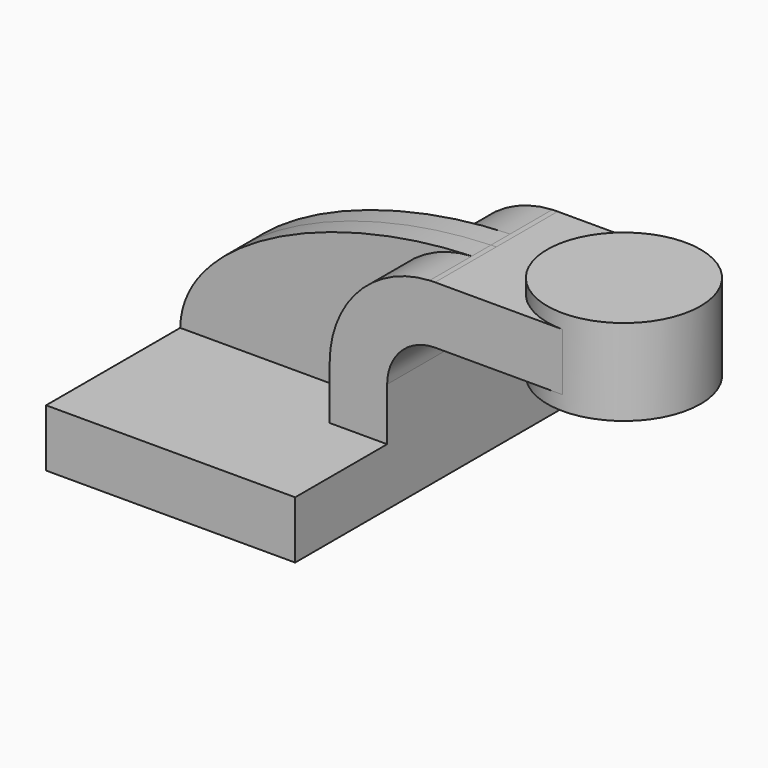
from build123d import *

# Parameters (mm, degrees)
F1_DEPTH = 63.5
F0_W     = 25.4
F0_H     = 19.05
F2_DEPTH = 25.4
F3_DEPTH = 7.9375


with BuildPart() as f1:
    # F0 (on Front) → F1 (new body, symmetric)
    with BuildSketch(Plane.XZ):
        Polygon((22.225, 9.525), (-41.275, 9.525), (-41.275, -9.525), (41.275, -9.525), (41.275, 9.525), align=None)
    extrude(amount=F1_DEPTH, both=True)

    # F0 (on Front) → F2 (join, symmetric)
    with BuildSketch(Plane.XZ):
        with BuildLine():
            Line((22.225, 27.0002), (22.225, 9.525))
            Line((22.225, 9.525), (41.275, 9.525))
            Line((41.275, 9.525), (41.275, 27.0002))
            ThreePointArc((41.275, 27.0002), (45.92468, 38.22552), (57.15, 42.8752))
            Line((57.15, 42.8752), (74.031852, 42.8752))
            Line((74.031852, 42.8752), (74.031852, 61.9252))
            Line((74.031852, 61.9252), (57.15, 61.9252))
            add(Edge.make_bspline(
                [(55.365015, 61.879556), (55.960003, 61.898055), (56.555027, 61.913281), (57.15, 61.9252)],
                knots=[110.145036, 110.145036, 110.145036, 110.145036, 111.504536, 111.504536, 111.504536, 111.504536], degree=3))
            ThreePointArc((55.365015, 61.879556), (31.831072, 51.05654), (22.225, 27.0002))
        make_face()
        with Locations((86.731852, 52.4002)):
            Rectangle(F0_W, F0_H)
        with Locations((86.731852, 52.4002)):
            Rectangle(F0_W, F0_H)
    extrude(amount=F2_DEPTH, both=True)

    # F0 (on Front) → F3 (join, symmetric)
    with BuildSketch(Plane.XZ):
        with BuildLine():
            add(Edge.make_bspline(
                [(-41.275, 9.525), (-40.801804, 37.387647), (7.159855, 60.38073), (55.365015, 61.879556)],
                knots=[0, 0, 0, 0, 110.145036, 110.145036, 110.145036, 110.145036], degree=3))
            Line((-41.275, 9.525), (22.225, 9.525))
            Line((22.225, 9.525), (22.225, 27.0002))
            ThreePointArc((22.225, 27.0002), (31.831072, 51.05654), (55.365015, 61.879556))
        make_face()
    extrude(amount=F3_DEPTH, both=True)

    # F0 (on Front) → F4 (revolve)
    with BuildSketch(Plane.XZ):
        Polygon((99.431852, 66.675), (99.431852, 61.9252), (99.431852, 42.8752), (99.431852, 38.1), (124.831852, 38.1), (124.831852, 66.675), align=None)
    revolve(axis=Axis((99.431852, 0, 52.3875), (0, 0, 1)))


solid = f1.part
